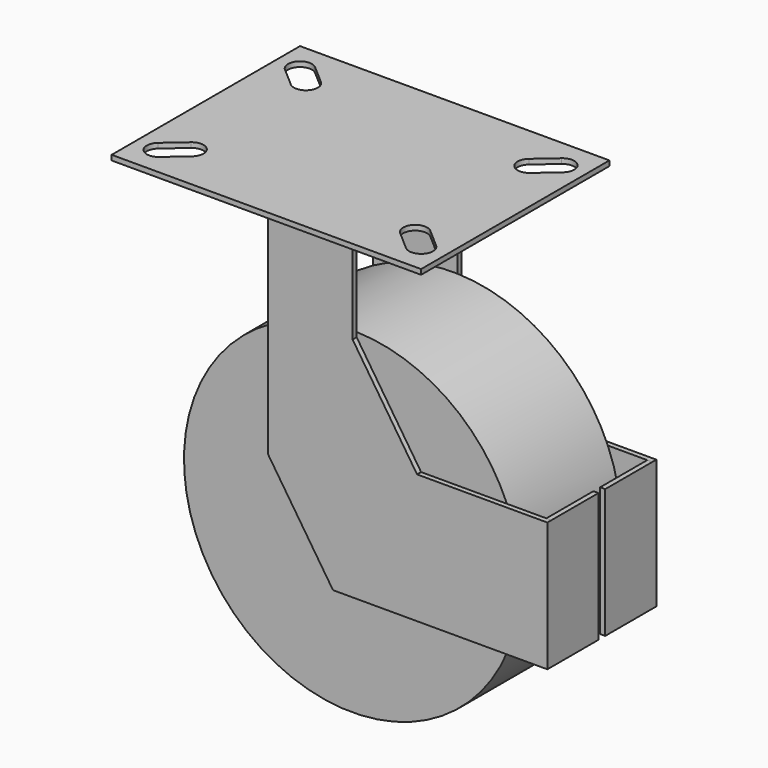
from build123d import *

# Parameters (mm, degrees)
F0_W      = 184
F0_H      = 140
F1_DEPTH  = 3
F2_R      = 37.5
F3_DEPTH  = 12
F6_R      = 100
F7_DEPTH  = 37.5
F9_DEPTH  = 3
F10_W     = 3
F10_H     = 76.852187
F11_DEPTH = 35


with BuildPart() as f1:
    # F0 (on Top) → F1 (new body)
    with BuildSketch(Plane.XY):
        Rectangle(F0_W, F0_H)
        with BuildLine():
            ThreePointArc((-71.158869, -37.142301), (-61.142301, -37.841131), (-61.841131, -47.857699))
            Line((-61.841131, -47.857699), (-73.341131, -57.857699))
            ThreePointArc((-73.341131, -57.857699), (-83.357699, -57.158869), (-82.658869, -47.142301))
            Line((-82.658869, -47.142301), (-71.158869, -37.142301))
        make_face(mode=Mode.SUBTRACT)
        with BuildLine():
            ThreePointArc((61.841131, -47.857699), (61.142301, -37.841131), (71.158869, -37.142301))
            Line((71.158869, -37.142301), (82.658869, -47.142301))
            ThreePointArc((82.658869, -47.142301), (83.357699, -57.158869), (73.341131, -57.857699))
            Line((73.341131, -57.857699), (61.841131, -47.857699))
        make_face(mode=Mode.SUBTRACT)
        with BuildLine():
            ThreePointArc((-82.658869, 47.142301), (-83.357699, 57.158869), (-73.341131, 57.857699))
            Line((-73.341131, 57.857699), (-61.841131, 47.857699))
            ThreePointArc((-61.841131, 47.857699), (-61.142301, 37.841131), (-71.158869, 37.142301))
            Line((-71.158869, 37.142301), (-82.658869, 47.142301))
        make_face(mode=Mode.SUBTRACT)
        with BuildLine():
            ThreePointArc((73.341131, 57.857699), (83.357699, 57.158869), (82.658869, 47.142301))
            Line((82.658869, 47.142301), (71.158869, 37.142301))
            ThreePointArc((71.158869, 37.142301), (61.142301, 37.841131), (61.841131, 47.857699))
            Line((61.841131, 47.857699), (73.341131, 57.857699))
        make_face(mode=Mode.SUBTRACT)
    extrude(amount=-F1_DEPTH)

    # F2 (on face) → F3 (join)
    with BuildSketch(Plane(origin=(0, 0, -3), x_dir=(1, 0, 0), z_dir=(0, 0, -1))):
        Circle(F2_R)
    extrude(amount=F3_DEPTH)



with BuildPart() as f7:
    # F6 (on Front) → F7 (new body, symmetric)
    with BuildSketch(Plane.XZ):
        with Locations((25, -167)):
            Circle(F6_R)
    extrude(amount=F7_DEPTH, both=True)


with BuildPart() as f1_1:
    add(f1.part)

    add(f7.part)  # F9 merges F7
    # F8 (on face) → F9 (join)
    with BuildSketch(Plane.XZ.offset(37.5)):
        Polygon((27.667802, -15), (-22.708422, -15), (-22.708422, -146.046415), (16.030081, -204.778984), (143.492267, -204.778984), (143.492267, -127.926797), (66.015258, -127.926797), (27.667802, -69.787103), align=None)
    extrude(amount=F9_DEPTH)

    # F10 (on face) → F11 (join)
    with BuildSketch(Plane(origin=(0, -37.5, 0), x_dir=(-1, 0, 0), z_dir=(0, 1, 0))):
        with Locations((-141.992267, -166.352891)):
            Rectangle(F10_W, F10_H)
    extrude(amount=F11_DEPTH)

    # F12: F1 across plane


with BuildPart() as f1_2:
    add(f1_1.part)
    add(f1_1.part.mirror(Plane.XZ))


solid = f1_2.part
